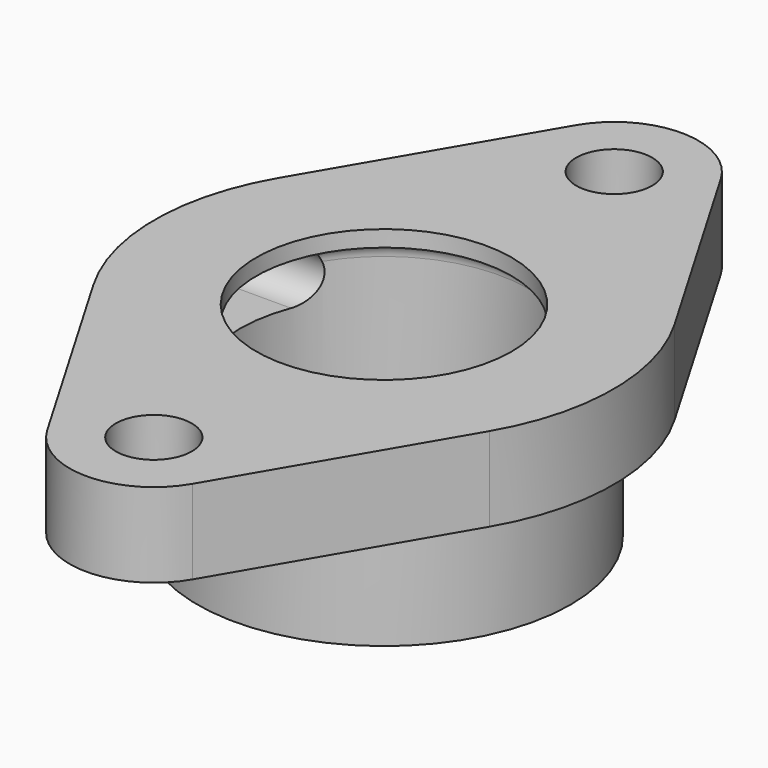
from build123d import *

# Parameters (mm, degrees)
F0_R     = 7.112
F1_DEPTH = 38.1
F3_DEPTH = 43.9260001
F6_R     = 23.876
F7_DEPTH = 38.1010001
F8_W     = 85.852
F8_H     = 139.446
F8_R     = 34.925
F9_DEPTH = 22.352


with BuildPart() as f1:
    # F0 (on Top) → F1 (new body)
    with BuildSketch(Plane.XY):
        with BuildLine():
            Line((37.057366384, 21.6654811321), (13.5950101527, 61.7962830189))
            ThreePointArc((13.5950101527, 61.7962830189), (0, 69.596), (-13.5950101527, 61.7962830189))
            Line((-13.5950101527, 61.7962830189), (-37.057366384, 21.6654811321))
            ThreePointArc((-37.057366384, 21.6654811321), (-42.926, 0), (-37.057366384, -21.6654811321))
            Line((-37.057366384, -21.6654811321), (-13.5950101527, -61.7962830189))
            ThreePointArc((-13.5950101527, -61.7962830189), (0, -69.596), (13.5950101527, -61.7962830189))
            Line((13.5950101527, -61.7962830189), (37.057366384, -21.6654811321))
            ThreePointArc((37.057366384, -21.6654811321), (42.926, 0), (37.057366384, 21.6654811321))
        make_face()
        with Locations((0, -53.848)):
            Circle(F0_R, mode=Mode.SUBTRACT)
        with Locations((0, 53.848)):
            Circle(F0_R, mode=Mode.SUBTRACT)
    extrude(amount=F1_DEPTH)

    # F2 (on Right) → F3 (cut, up to face)
    with BuildSketch(Plane.YZ):
        with BuildLine():
            Line((-9.652, 25.4), (9.652, 25.4))
            ThreePointArc((9.652, 25.4), (14.478, 30.226), (9.652, 35.052))
            Line((9.652, 35.052), (-9.652, 35.052))
            ThreePointArc((-9.652, 35.052), (-14.478, 30.226), (-9.652, 25.4))
        make_face()
    extrude(amount=-F3_DEPTH, mode=Mode.SUBTRACT)

    # F4 (on Front) → F5 (revolve, cut)
    with BuildSketch(Plane.XZ):
        with BuildLine():
            Line((0, 35.052), (0, 3.048))
            Line((0, 3.048), (23.876, 3.048))
            ThreePointArc((23.876, 3.048), (26.0312614691, 3.9407385309), (26.924, 6.096))
            Line((26.924, 6.096), (26.924, 32.004))
            ThreePointArc((26.924, 32.004), (26.0312614691, 34.1592614691), (23.876, 35.052))
            Line((23.876, 35.052), (0, 35.052))
        make_face()
    revolve(axis=Axis((0, 0, 19.05), (0, 0, 1)), mode=Mode.SUBTRACT)

    # F6 (on face) → F7 (cut, through all)
    with BuildSketch(Plane(origin=(0, 0, 0), x_dir=(1, 0, 0), z_dir=(0, 0, -1))):
        Circle(F6_R)
    extrude(amount=-F7_DEPTH, mode=Mode.SUBTRACT)

    # F8 (on face) → F9 (cut)
    with BuildSketch(Plane(origin=(0, 0, 0), x_dir=(1, 0, 0), z_dir=(0, 0, -1))):
        with Locations((0, -0.127)):
            Rectangle(F8_W, F8_H)
        Circle(F8_R, mode=Mode.SUBTRACT)
    extrude(amount=-F9_DEPTH, mode=Mode.SUBTRACT)


solid = f1.part
